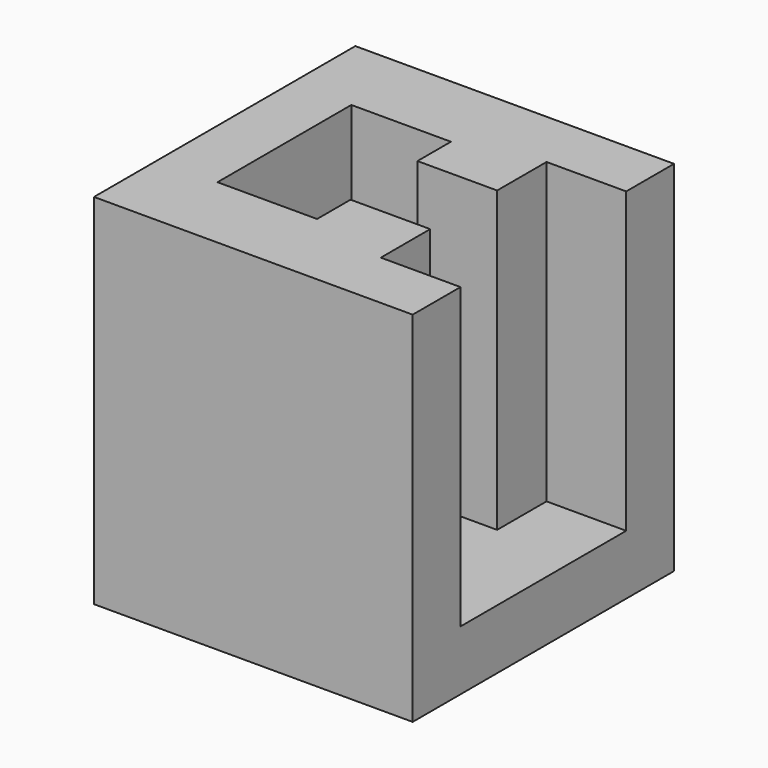
from build123d import *

# Parameters (mm, degrees)
F0_W     = 3
F0_H     = 8.4
F1_DEPTH = 3
F2_DEPTH = 15


with BuildPart() as f1:
    # F0 (on Top) → F1 (new body)
    with BuildSketch(Plane.XY):
        Polygon((-3, 0), (0, 0), (5, 0), (5, -2.1), (9, -2.1), (9, 1), (13, 1), (13, 4), (-3, 4), align=None)
        with Locations((-1.5, -4.2)):
            Rectangle(F0_W, F0_H)
        Polygon((5, -8.4), (0, -8.4), (-3, -8.4), (-3, -12.4), (13, -12.4), (13, -9.4), (9, -9.4), (9, -6.3), (5, -6.3), align=None)
        Polygon((5, 0), (0, 0), (0, -8.4), (5, -8.4), (5, -6.3), (9, -6.3), (9, -9.4), (13, -9.4), (13, 1), (9, 1), (9, -2.1), (5, -2.1), align=None)
    extrude(amount=-F1_DEPTH)

    # F0 (on Top) → F2 (join)
    with BuildSketch(Plane.XY):
        Polygon((-3, 0), (0, 0), (5, 0), (5, -2.1), (9, -2.1), (9, 1), (13, 1), (13, 4), (-3, 4), align=None)
        Polygon((5, -8.4), (0, -8.4), (-3, -8.4), (-3, -12.4), (13, -12.4), (13, -9.4), (9, -9.4), (9, -6.3), (5, -6.3), align=None)
        with Locations((-1.5, -4.2)):
            Rectangle(F0_W, F0_H)
    extrude(amount=F2_DEPTH)


solid = f1.part
